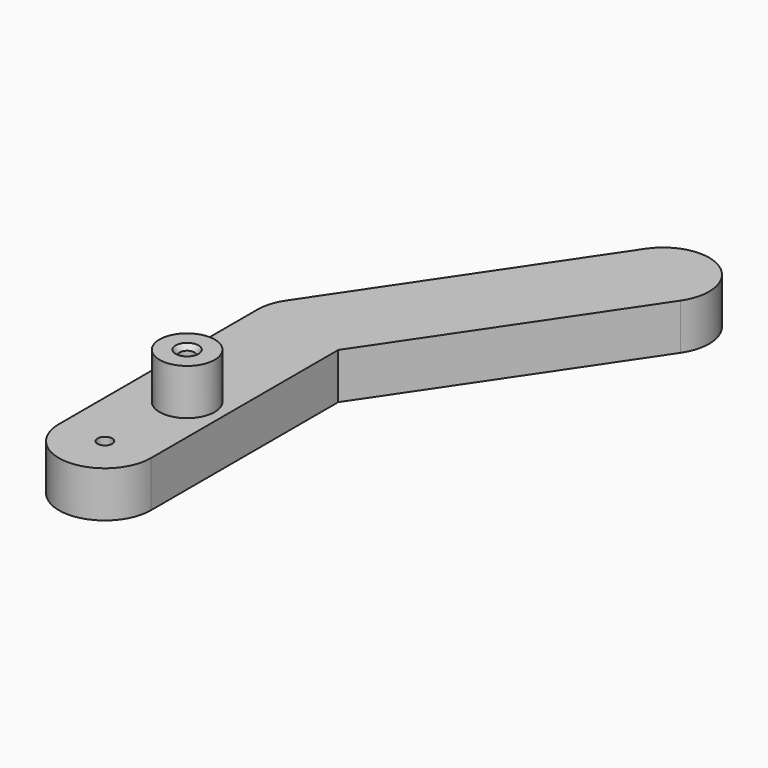
from build123d import *

# Parameters (mm, degrees)
F1_DEPTH       = 6.35
F2_R           = 3.81
F3_DEPTH       = 6.35
F5_D           = 2.032
F5_CSINK_D     = 3.175
F5_CSINK_ANGLE = 82
F7_D           = 2.032


with BuildPart() as f1:
    # F0 (on Top) → F1 (new body)
    with BuildSketch(Plane.XY):
        with BuildLine():
            ThreePointArc((-123.1566441004, -310.5219163513), (-123.8999268858, -307.5407719276), (-125.9557691634, -305.2575277656))
            Line((-125.9557691634, -305.2575277656), (-129.5066441004, -310.5219163513))
            Line((-129.5066441004, -310.5219163513), (-129.5066441004, -316.8719163513))
            ThreePointArc((-129.5066441004, -316.8719163513), (-126.5254996767, -316.128633566), (-124.2422555147, -314.0727912884))
            Line((-124.2422555147, -314.0727912884), (-123.1566441004, -312.4633061786))
            Line((-123.1566441004, -312.4633061786), (-123.1566441004, -310.5219163513))
        make_face()
        with BuildLine():
            Line((-129.5066441004, -310.5219163513), (-125.9557691634, -305.2575277656))
            ThreePointArc((-125.9557691634, -305.2575277656), (-130.7182812211, -304.2885837364), (-134.7710326862, -306.9710414143))
            ThreePointArc((-134.7710326862, -306.9710414143), (-135.5791793008, -308.6653560263), (-135.8566441004, -310.5219163513))
            ThreePointArc((-135.8566441004, -310.5219163513), (-133.996772161, -315.0120444119), (-129.5066441004, -316.8719163513))
            Line((-129.5066441004, -316.8719163513), (-129.5066441004, -310.5219163513))
        make_face()
        with BuildLine():
            ThreePointArc((-134.7710326862, -306.9710414143), (-130.7182812211, -304.2885837364), (-125.9557691634, -305.2575277656))
            ThreePointArc((-125.9557691634, -305.2575277656), (-123.8999268858, -307.5407719276), (-123.1566441004, -310.5219163513))
            Line((-123.1566441004, -310.5219163513), (-123.1566441004, -312.4633061786))
            Line((-123.1566441004, -312.4633061786), (-101.5166559177, -280.3807043397))
            ThreePointArc((-101.5166559177, -280.3807043397), (-103.2301695663, -271.565440817), (-112.0454330891, -273.2789544656))
            Line((-112.0454330891, -273.2789544656), (-134.7710326862, -306.9710414143))
        make_face()
        with BuildLine():
            ThreePointArc((-124.2422555147, -314.0727912884), (-126.5254996767, -316.128633566), (-129.5066441004, -316.8719163513))
            Line((-129.5066441004, -316.8719163513), (-129.5066441004, -325.7619163513))
            ThreePointArc((-129.5066441004, -325.7619163513), (-125.0165160399, -327.6217882908), (-123.1566441004, -332.1119163513))
            Line((-123.1566441004, -332.1119163513), (-123.1566441004, -312.4633061786))
            Line((-123.1566441004, -312.4633061786), (-124.2422555147, -314.0727912884))
        make_face()
        with BuildLine():
            Line((-129.5066441004, -325.7619163513), (-129.5066441004, -316.8719163513))
            ThreePointArc((-129.5066441004, -316.8719163513), (-133.996772161, -315.0120444119), (-135.8566441004, -310.5219163513))
            Line((-135.8566441004, -310.5219163513), (-135.8566441004, -332.1119163513))
            ThreePointArc((-135.8566441004, -332.1119163513), (-133.996772161, -327.6217882908), (-129.5066441004, -325.7619163513))
        make_face()
        with BuildLine():
            ThreePointArc((-123.1566441004, -332.1119163513), (-125.0165160399, -327.6217882908), (-129.5066441004, -325.7619163513))
            Line((-129.5066441004, -325.7619163513), (-129.5066441004, -332.1119163513))
            Line((-129.5066441004, -332.1119163513), (-129.5066441004, -338.4619163513))
            ThreePointArc((-129.5066441004, -338.4619163513), (-125.0165160399, -336.6020444119), (-123.1566441004, -332.1119163513))
        make_face()
        with BuildLine():
            Line((-129.5066441004, -332.1119163513), (-129.5066441004, -325.7619163513))
            ThreePointArc((-129.5066441004, -325.7619163513), (-133.996772161, -327.6217882908), (-135.8566441004, -332.1119163513))
            ThreePointArc((-135.8566441004, -332.1119163513), (-133.996772161, -336.6020444119), (-129.5066441004, -338.4619163513))
            Line((-129.5066441004, -338.4619163513), (-129.5066441004, -332.1119163513))
        make_face()
        with BuildLine():
            ThreePointArc((-129.5066441004, -338.4619163513), (-133.996772161, -336.6020444119), (-135.8566441004, -332.1119163513))
            Line((-135.8566441004, -332.1119163513), (-135.8566441004, -344.8119163513))
            ThreePointArc((-135.8566441004, -344.8119163513), (-129.5066441004, -351.1619163513), (-123.1566441004, -344.8119163513))
            Line((-123.1566441004, -344.8119163513), (-123.1566441004, -332.1119163513))
            ThreePointArc((-123.1566441004, -332.1119163513), (-125.0165160399, -336.6020444119), (-129.5066441004, -338.4619163513))
        make_face()
    extrude(amount=F1_DEPTH)

    # F2 (on face) → F3 (join)
    with BuildSketch(Plane.XY.offset(6.35)):
        with Locations((-128.3101886511, -332.1119163513)):
            Circle(F2_R)
    extrude(amount=F3_DEPTH)

    # F5 (through all)
    with Locations(Plane.XY.offset(12.7)):
        with Locations((-128.3101886511, -332.1119163513)):
            CounterSinkHole(F5_D / 2, F5_CSINK_D / 2, counter_sink_angle=F5_CSINK_ANGLE)

    # F7 (through all)
    with Locations(Plane.XY.offset(6.35)):
        with Locations((-129.5066441004, -344.8119163513)):
            Hole(F7_D / 2)


solid = f1.part
